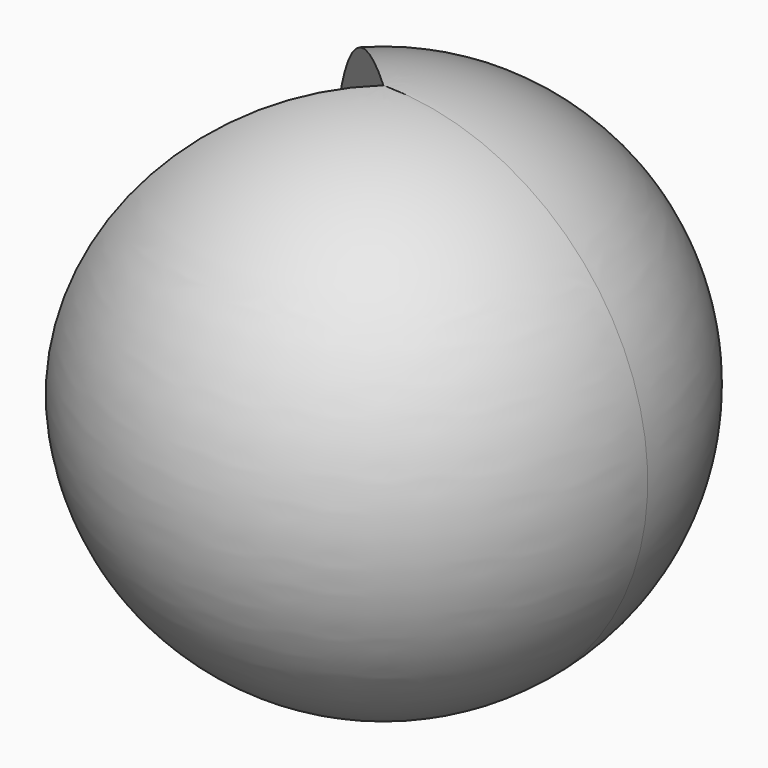
from build123d import *

# Parameters (mm, degrees)
F3_ANGLE = 274.664856


with BuildPart() as f1:
    # F0 (on Front) → F1 (revolve)
    with BuildSketch(Plane.XZ):
        with BuildLine():
            Line((0, 30), (0, 0))
            ThreePointArc((0, 0), (15.038575, 15), (0, 30))
        make_face()
    revolve(axis=Axis((0, 0, 15), (0, 0, 1)))

    # F2 (on Front) → F3 (revolve, symmetric)
    with BuildSketch(Plane.XZ) as f3_sk:
        with BuildLine():
            Line((0, 42.013571), (0, -20.006478))
            ThreePointArc((0, -20.006478), (31.175747, 11.003546), (0, 42.013571))
        make_face()
    revolve(axis=Axis((0, 0, 11.003546), (0, 0, 1)), revolution_arc=F3_ANGLE / 2)
    revolve(f3_sk.sketch, axis=Axis((0, 0, 11.003546), (0, 0, -1)), revolution_arc=F3_ANGLE / 2)


solid = f1.part
